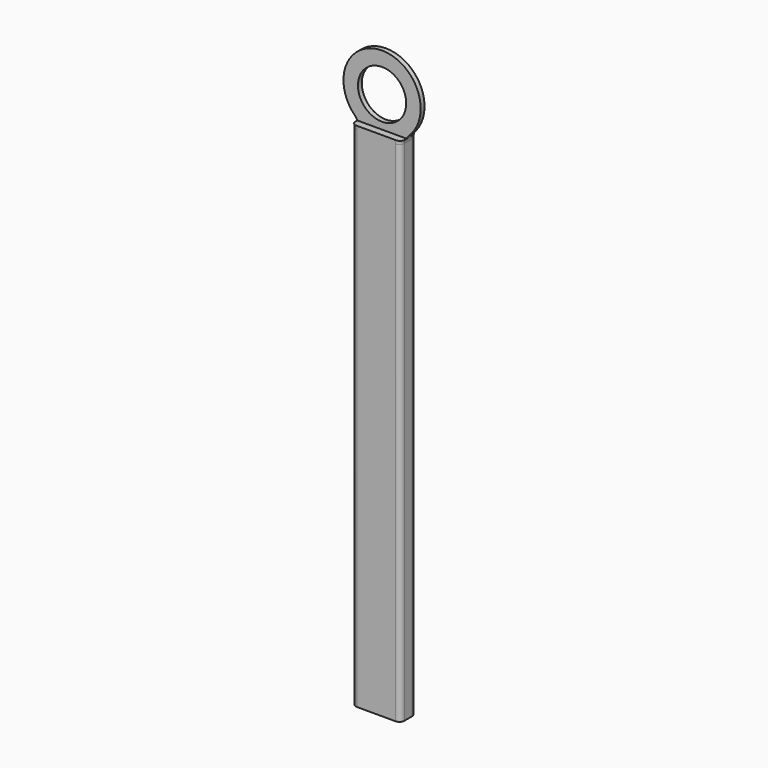
from build123d import *

# Parameters (mm, degrees)
F0_R     = 25
F1_DEPTH = 20
F3_R     = 5
F4_DEPTH = 70


with BuildPart() as f1:
    # F0 (on Front) → F1 (new body)
    with BuildSketch(Plane.XZ):
        with BuildLine():
            Line((-25.191063, 440.046496), (-25.191063, -86.412484))
            Line((-25.191063, -86.412484), (24.808937, -86.412484))
            Line((24.808937, -86.412484), (24.808937, 440.046496))
            ThreePointArc((24.808937, 440.046496), (25.589393, 443.919479), (27.808937, 447.187924))
            ThreePointArc((27.808937, 447.187924), (-0.191063, 515.753638), (-28.191063, 447.187924))
            ThreePointArc((-28.191063, 447.187924), (-25.971518, 443.919479), (-25.191063, 440.046496))
        make_face()
        with Locations((-0.191063, 475.753638)):
            Circle(F0_R, mode=Mode.SUBTRACT)
    extrude(amount=F1_DEPTH)

    # F3
    f3_edges = [f1.edges().sort_by_distance(p)[0] for p in [
        (-25.191063, -20, 176.817006),
        (-25.191063, 0, 176.817006),
    ]]
    fillet(f3_edges, radius=F3_R)

    # F2 (on face) → F4 (cut, symmetric)
    with BuildSketch(Plane(origin=(-25.191063, 0, 0), x_dir=(0, -1, 0), z_dir=(-1, 0, 0))):
        Polygon((7.5, 443.61721), (7.5, 515.753638), (0, 515.753638), (0, 500.753638), (0, 450.753638), (0, 447.187924), (0, 443.61721), align=None)
        Polygon((20, 450.753638), (20, 500.753638), (20, 515.753638), (12.5, 515.753638), (12.5, 443.61721), (20, 443.61721), (20, 447.187924), align=None)
    extrude(amount=F4_DEPTH, both=True, mode=Mode.SUBTRACT)


solid = f1.part
